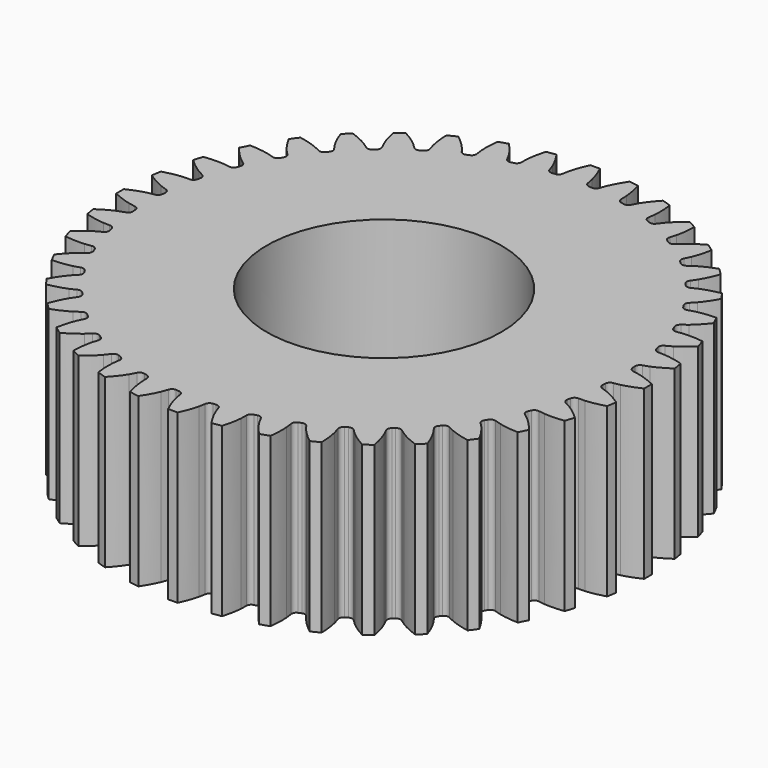
from build123d import *

# Parameters (mm, degrees)
CYLINDER_R     = 7
CYLINDER_DEPTH = 10
PAD002_DEPTH   = 10


with BuildPart() as cylinder:
    # Cylinder → Cylinder (new body)
    with BuildSketch(Plane.XY):
        Circle(CYLINDER_R)
    extrude(amount=CYLINDER_DEPTH)


with BuildPart() as cut001:
    # InvoluteGear001 → Pad002 (new body)
    with BuildSketch(Plane.XY):
        with BuildLine():
            add(Edge.make_bspline(
                [(14.281854, -0.750733), (14.376877, -0.739514), (14.50388, -0.718819), (14.661323, -0.680954)],
                knots=[0, 0, 0, 0, 1, 1, 1, 1], degree=3))
            add(Edge.make_bspline(
                [(14.661323, -0.680954), (14.937858, -0.61437), (15.305187, -0.495667), (15.747806, -0.285087)],
                knots=[0, 0, 0, 0, 1, 1, 1, 1], degree=3))
            ThreePointArc((15.747806, -0.285087), (15.750193, 7.5e-05), (15.747417, 0.285234))
            add(Edge.make_bspline(
                [(15.747417, 0.285234), (15.305187, 0.495667), (14.937858, 0.61437), (14.661323, 0.680954)],
                knots=[0, 0, 0, 0, 1, 1, 1, 1], degree=3))
            add(Edge.make_bspline(
                [(14.661323, 0.680954), (14.50388, 0.718819), (14.376877, 0.739514), (14.281897, 0.750726)],
                knots=[0, 0, 0, 0, 1, 1, 1, 1], degree=3))
            ThreePointArc((14.281897, 0.750726), (14.105779, 0.8357), (14.025881, 1.014179))
            ThreePointArc((14.025881, 1.014179), (14.01915, 1.103331), (14.011852, 1.192438))
            ThreePointArc((14.011852, 1.192438), (14.062835, 1.381199), (14.223462, 1.492684))
            add(Edge.make_bspline(
                [(14.223462, 1.492684), (14.315559, 1.51863), (14.437761, 1.558938), (14.587343, 1.620966)],
                knots=[0, 0, 0, 0, 1, 1, 1, 1], degree=3))
            add(Edge.make_bspline(
                [(14.587343, 1.620966), (14.850056, 1.72999), (15.194294, 1.904694), (15.598521, 2.181922)],
                knots=[0, 0, 0, 0, 1, 1, 1, 1], degree=3))
            ThreePointArc((15.598521, 2.181922), (15.55627, 2.463947), (15.50892, 2.745161))
            add(Edge.make_bspline(
                [(15.50892, 2.745161), (15.039215, 2.883823), (14.657839, 2.943602), (14.374293, 2.966107)],
                knots=[0, 0, 0, 0, 1, 1, 1, 1], degree=3))
            add(Edge.make_bspline(
                [(14.374293, 2.966107), (14.212865, 2.978875), (14.084188, 2.979448), (13.988624, 2.975664)],
                knots=[0, 0, 0, 0, 1, 1, 1, 1], degree=3))
            ThreePointArc((13.988624, 2.975664), (13.801381, 3.032041), (13.694547, 3.195824))
            ThreePointArc((13.694547, 3.195824), (13.673952, 3.282825), (13.652804, 3.369694))
            ThreePointArc((13.652804, 3.369694), (13.673631, 3.564106), (13.81484, 3.699346))
            add(Edge.make_bspline(
                [(13.81484, 3.699346), (13.901745, 3.73938), (14.016137, 3.798308), (14.154173, 3.882972)],
                knots=[0, 0, 0, 0, 1, 1, 1, 1], degree=3))
            add(Edge.make_bspline(
                [(14.154173, 3.882972), (14.396598, 4.031751), (14.709267, 4.258155), (15.06515, 4.595206)],
                knots=[0, 0, 0, 0, 1, 1, 1, 1], degree=3))
            ThreePointArc((15.06515, 4.595206), (14.979301, 4.867149), (14.888542, 5.137493))
            add(Edge.make_bspline(
                [(14.888542, 5.137493), (14.402928, 5.20097), (14.016896, 5.200352), (13.73332, 5.178224)],
                knots=[0, 0, 0, 0, 1, 1, 1, 1], degree=3))
            add(Edge.make_bspline(
                [(13.73332, 5.178224), (13.571882, 5.165583), (13.4447, 5.146018), (13.350905, 5.127332)],
                knots=[0, 0, 0, 0, 1, 1, 1, 1], degree=3))
            ThreePointArc((13.350905, 5.127332), (13.157147, 5.153724), (13.026007, 5.298778))
            ThreePointArc((13.026007, 5.298778), (12.992056, 5.381486), (12.95758, 5.463976))
            ThreePointArc((12.95758, 5.463976), (12.947736, 5.659253), (13.066051, 5.814918))
            add(Edge.make_bspline(
                [(13.066051, 5.814918), (13.145623, 5.868054), (13.249389, 5.944152), (13.372481, 6.049367)],
                knots=[0, 0, 0, 0, 1, 1, 1, 1], degree=3))
            add(Edge.make_bspline(
                [(13.372481, 6.049367), (13.588647, 6.234238), (13.86205, 6.506767), (14.160824, 6.89534)],
                knots=[0, 0, 0, 0, 1, 1, 1, 1], degree=3))
            ThreePointArc((14.160824, 6.89534), (14.033491, 7.150505), (13.901558, 7.403323))
            add(Edge.make_bspline(
                [(13.901558, 7.403323), (13.411993, 7.390052), (13.03081, 7.329053), (12.754188, 7.262836)],
                knots=[0, 0, 0, 0, 1, 1, 1, 1], degree=3))
            add(Edge.make_bspline(
                [(12.754188, 7.262836), (12.596715, 7.225096), (12.474159, 7.185877), (12.384441, 7.152747)],
                knots=[0, 0, 0, 0, 1, 1, 1, 1], degree=3))
            ThreePointArc((12.384441, 7.152747), (12.188941, 7.148504), (12.036724, 7.271257))
            ThreePointArc((12.036724, 7.271257), (11.990252, 7.347636), (11.943296, 7.423718))
            ThreePointArc((11.943296, 7.423718), (11.903026, 7.615051), (11.995533, 7.787307))
            add(Edge.make_bspline(
                [(11.995533, 7.787307), (12.065813, 7.852237), (12.156396, 7.94363), (12.261514, 8.066806)],
                knots=[0, 0, 0, 0, 1, 1, 1, 1], degree=3))
            add(Edge.make_bspline(
                [(12.261514, 8.066806), (12.446098, 8.283217), (12.673502, 8.59516), (12.907812, 9.025688)],
                knots=[0, 0, 0, 0, 1, 1, 1, 1], degree=3))
            ThreePointArc((12.907812, 9.025688), (12.74213, 9.257792), (12.572272, 9.486858))
            add(Edge.make_bspline(
                [(12.572272, 9.486858), (12.09081, 9.397166), (11.723863, 9.277288), (11.461005, 9.168613)],
                knots=[0, 0, 0, 0, 1, 1, 1, 1], degree=3))
            add(Edge.make_bspline(
                [(11.461005, 9.168613), (11.311374, 9.106703), (11.196463, 9.048795), (11.113032, 9.002038)],
                knots=[0, 0, 0, 0, 1, 1, 1, 1], degree=3))
            ThreePointArc((11.113032, 9.002038), (10.920603, 8.967265), (10.751057, 9.064694))
            ThreePointArc((10.751057, 9.064694), (10.693209, 9.132863), (10.634929, 9.200663))
            ThreePointArc((10.634929, 9.200663), (10.565224, 9.38334), (10.629645, 9.567948))
            add(Edge.make_bspline(
                [(10.629645, 9.567948), (10.688902, 9.643072), (10.764073, 9.74751), (10.848628, 9.885614)],
                knots=[0, 0, 0, 0, 1, 1, 1, 1], degree=3))
            add(Edge.make_bspline(
                [(10.848628, 9.885614), (10.997086, 10.128235), (11.172891, 10.471912), (11.336967, 10.933793)],
                knots=[0, 0, 0, 0, 1, 1, 1, 1], degree=3))
            ThreePointArc((11.336967, 10.933793), (11.137015, 11.137121), (10.933415, 11.336796))
            add(Edge.make_bspline(
                [(10.933415, 11.336796), (10.471912, 11.172891), (10.128235, 10.997086), (9.885614, 10.848628)],
                knots=[0, 0, 0, 0, 1, 1, 1, 1], degree=3))
            add(Edge.make_bspline(
                [(9.885614, 10.848628), (9.74751, 10.764073), (9.643072, 10.688902), (9.567983, 10.62967)],
                knots=[0, 0, 0, 0, 1, 1, 1, 1], degree=3))
            ThreePointArc((9.567983, 10.62967), (9.383363, 10.565221), (9.200663, 10.634929))
            ThreePointArc((9.200663, 10.634929), (9.132863, 10.693209), (9.064694, 10.751057))
            ThreePointArc((9.064694, 10.751057), (8.96727, 10.920581), (9.002019, 11.112993))
            add(Edge.make_bspline(
                [(9.002019, 11.112993), (9.048795, 11.196463), (9.106703, 11.311374), (9.168613, 11.461005)],
                knots=[0, 0, 0, 0, 1, 1, 1, 1], degree=3))
            add(Edge.make_bspline(
                [(9.168613, 11.461005), (9.277288, 11.723863), (9.397166, 12.09081), (9.486968, 12.572672)],
                knots=[0, 0, 0, 0, 1, 1, 1, 1], degree=3))
            ThreePointArc((9.486968, 12.572672), (9.25767, 12.742218), (9.025341, 12.907584))
            add(Edge.make_bspline(
                [(9.025341, 12.907584), (8.59516, 12.673502), (8.283217, 12.446098), (8.066806, 12.261514)],
                knots=[0, 0, 0, 0, 1, 1, 1, 1], degree=3))
            add(Edge.make_bspline(
                [(8.066806, 12.261514), (7.94363, 12.156396), (7.852237, 12.065813), (7.787339, 11.995563)],
                knots=[0, 0, 0, 0, 1, 1, 1, 1], degree=3))
            ThreePointArc((7.787339, 11.995563), (7.615073, 11.903027), (7.423718, 11.943296))
            ThreePointArc((7.423718, 11.943296), (7.347636, 11.990252), (7.271257, 12.036724))
            ThreePointArc((7.271257, 12.036724), (7.148513, 12.188921), (7.152734, 12.3844))
            add(Edge.make_bspline(
                [(7.152734, 12.3844), (7.185877, 12.474159), (7.225096, 12.596715), (7.262836, 12.754188)],
                knots=[0, 0, 0, 0, 1, 1, 1, 1], degree=3))
            add(Edge.make_bspline(
                [(7.262836, 12.754188), (7.329053, 13.03081), (7.390052, 13.411993), (7.403369, 13.901971)],
                knots=[0, 0, 0, 0, 1, 1, 1, 1], degree=3))
            ThreePointArc((7.403369, 13.901971), (7.150371, 14.033559), (6.895033, 14.160545))
            add(Edge.make_bspline(
                [(6.895033, 14.160545), (6.506767, 13.86205), (6.234238, 13.588647), (6.049367, 13.372481)],
                knots=[0, 0, 0, 0, 1, 1, 1, 1], degree=3))
            add(Edge.make_bspline(
                [(6.049367, 13.372481), (5.944152, 13.249389), (5.868054, 13.145623), (5.814944, 13.066086)],
                knots=[0, 0, 0, 0, 1, 1, 1, 1], degree=3))
            ThreePointArc((5.814944, 13.066086), (5.659275, 12.947741), (5.463976, 12.95758))
            ThreePointArc((5.463976, 12.95758), (5.381486, 12.992056), (5.298778, 13.026007))
            ThreePointArc((5.298778, 13.026007), (5.153736, 13.157129), (5.127326, 13.350861))
            add(Edge.make_bspline(
                [(5.127326, 13.350861), (5.146018, 13.4447), (5.165583, 13.571882), (5.178224, 13.73332)],
                knots=[0, 0, 0, 0, 1, 1, 1, 1], degree=3))
            add(Edge.make_bspline(
                [(5.178224, 13.73332), (5.200352, 14.016896), (5.20097, 14.402928), (5.137474, 14.888956)],
                knots=[0, 0, 0, 0, 1, 1, 1, 1], degree=3))
            ThreePointArc((5.137474, 14.888956), (4.867006, 14.979347), (4.594946, 15.064826))
            add(Edge.make_bspline(
                [(4.594946, 15.064826), (4.258155, 14.709267), (4.031751, 14.396598), (3.882972, 14.154173)],
                knots=[0, 0, 0, 0, 1, 1, 1, 1], degree=3))
            add(Edge.make_bspline(
                [(3.882972, 14.154173), (3.798308, 14.016137), (3.73938, 13.901745), (3.699366, 13.814879)],
                knots=[0, 0, 0, 0, 1, 1, 1, 1], degree=3))
            ThreePointArc((3.699366, 13.814879), (3.564127, 13.673639), (3.369694, 13.652804))
            ThreePointArc((3.369694, 13.652804), (3.282825, 13.673952), (3.195824, 13.694547))
            ThreePointArc((3.195824, 13.694547), (3.032057, 13.801364), (2.975665, 13.988581))
            add(Edge.make_bspline(
                [(2.975665, 13.988581), (2.979448, 14.084188), (2.978875, 14.212865), (2.966107, 14.374293)],
                knots=[0, 0, 0, 0, 1, 1, 1, 1], degree=3))
            add(Edge.make_bspline(
                [(2.966107, 14.374293), (2.943602, 14.657839), (2.883823, 15.039215), (2.745077, 15.509327)],
                knots=[0, 0, 0, 0, 1, 1, 1, 1], degree=3))
            ThreePointArc((2.745077, 15.509327), (2.463799, 15.556294), (2.181717, 15.598161))
            add(Edge.make_bspline(
                [(2.181717, 15.598161), (1.904694, 15.194294), (1.72999, 14.850056), (1.620966, 14.587343)],
                knots=[0, 0, 0, 0, 1, 1, 1, 1], degree=3))
            add(Edge.make_bspline(
                [(1.620966, 14.587343), (1.558938, 14.437761), (1.51863, 14.315559), (1.492698, 14.223503)],
                knots=[0, 0, 0, 0, 1, 1, 1, 1], degree=3))
            ThreePointArc((1.492698, 14.223503), (1.381219, 14.062846), (1.192438, 14.011852))
            ThreePointArc((1.192438, 14.011852), (1.103331, 14.01915), (1.014179, 14.025881))
            ThreePointArc((1.014179, 14.025881), (0.835718, 14.105765), (0.750733, 14.281854))
            add(Edge.make_bspline(
                [(0.750733, 14.281854), (0.739514, 14.376877), (0.718819, 14.50388), (0.680954, 14.661323)],
                knots=[0, 0, 0, 0, 1, 1, 1, 1], degree=3))
            add(Edge.make_bspline(
                [(0.680954, 14.661323), (0.61437, 14.937858), (0.495667, 15.305187), (0.285087, 15.747806)],
                knots=[0, 0, 0, 0, 1, 1, 1, 1], degree=3))
            ThreePointArc((0.285087, 15.747806), (-7.5e-05, 15.750193), (-0.285234, 15.747417))
            add(Edge.make_bspline(
                [(-0.285234, 15.747417), (-0.495667, 15.305187), (-0.61437, 14.937858), (-0.680954, 14.661323)],
                knots=[0, 0, 0, 0, 1, 1, 1, 1], degree=3))
            add(Edge.make_bspline(
                [(-0.680954, 14.661323), (-0.718819, 14.50388), (-0.739514, 14.376877), (-0.750726, 14.281897)],
                knots=[0, 0, 0, 0, 1, 1, 1, 1], degree=3))
            ThreePointArc((-0.750726, 14.281897), (-0.8357, 14.105779), (-1.014179, 14.025881))
            ThreePointArc((-1.014179, 14.025881), (-1.103331, 14.01915), (-1.192438, 14.011852))
            ThreePointArc((-1.192438, 14.011852), (-1.381199, 14.062835), (-1.492684, 14.223462))
            add(Edge.make_bspline(
                [(-1.492684, 14.223462), (-1.51863, 14.315559), (-1.558938, 14.437761), (-1.620966, 14.587343)],
                knots=[0, 0, 0, 0, 1, 1, 1, 1], degree=3))
            add(Edge.make_bspline(
                [(-1.620966, 14.587343), (-1.72999, 14.850056), (-1.904694, 15.194294), (-2.181922, 15.598521)],
                knots=[0, 0, 0, 0, 1, 1, 1, 1], degree=3))
            ThreePointArc((-2.181922, 15.598521), (-2.463947, 15.55627), (-2.745161, 15.50892))
            add(Edge.make_bspline(
                [(-2.745161, 15.50892), (-2.883823, 15.039215), (-2.943602, 14.657839), (-2.966107, 14.374293)],
                knots=[0, 0, 0, 0, 1, 1, 1, 1], degree=3))
            add(Edge.make_bspline(
                [(-2.966107, 14.374293), (-2.978875, 14.212865), (-2.979448, 14.084188), (-2.975664, 13.988624)],
                knots=[0, 0, 0, 0, 1, 1, 1, 1], degree=3))
            ThreePointArc((-2.975664, 13.988624), (-3.032041, 13.801381), (-3.195824, 13.694547))
            ThreePointArc((-3.195824, 13.694547), (-3.282825, 13.673952), (-3.369694, 13.652804))
            ThreePointArc((-3.369694, 13.652804), (-3.564106, 13.673631), (-3.699346, 13.81484))
            add(Edge.make_bspline(
                [(-3.699346, 13.81484), (-3.73938, 13.901745), (-3.798308, 14.016137), (-3.882972, 14.154173)],
                knots=[0, 0, 0, 0, 1, 1, 1, 1], degree=3))
            add(Edge.make_bspline(
                [(-3.882972, 14.154173), (-4.031751, 14.396598), (-4.258155, 14.709267), (-4.595206, 15.06515)],
                knots=[0, 0, 0, 0, 1, 1, 1, 1], degree=3))
            ThreePointArc((-4.595206, 15.06515), (-4.867149, 14.979301), (-5.137493, 14.888542))
            add(Edge.make_bspline(
                [(-5.137493, 14.888542), (-5.20097, 14.402928), (-5.200352, 14.016896), (-5.178224, 13.73332)],
                knots=[0, 0, 0, 0, 1, 1, 1, 1], degree=3))
            add(Edge.make_bspline(
                [(-5.178224, 13.73332), (-5.165583, 13.571882), (-5.146018, 13.4447), (-5.127332, 13.350905)],
                knots=[0, 0, 0, 0, 1, 1, 1, 1], degree=3))
            ThreePointArc((-5.127332, 13.350905), (-5.153724, 13.157147), (-5.298778, 13.026007))
            ThreePointArc((-5.298778, 13.026007), (-5.381486, 12.992056), (-5.463976, 12.95758))
            ThreePointArc((-5.463976, 12.95758), (-5.659253, 12.947736), (-5.814918, 13.066051))
            add(Edge.make_bspline(
                [(-5.814918, 13.066051), (-5.868054, 13.145623), (-5.944152, 13.249389), (-6.049367, 13.372481)],
                knots=[0, 0, 0, 0, 1, 1, 1, 1], degree=3))
            add(Edge.make_bspline(
                [(-6.049367, 13.372481), (-6.234238, 13.588647), (-6.506767, 13.86205), (-6.89534, 14.160824)],
                knots=[0, 0, 0, 0, 1, 1, 1, 1], degree=3))
            ThreePointArc((-6.89534, 14.160824), (-7.150505, 14.033491), (-7.403323, 13.901558))
            add(Edge.make_bspline(
                [(-7.403323, 13.901558), (-7.390052, 13.411993), (-7.329053, 13.03081), (-7.262836, 12.754188)],
                knots=[0, 0, 0, 0, 1, 1, 1, 1], degree=3))
            add(Edge.make_bspline(
                [(-7.262836, 12.754188), (-7.225096, 12.596715), (-7.185877, 12.474159), (-7.152747, 12.384441)],
                knots=[0, 0, 0, 0, 1, 1, 1, 1], degree=3))
            ThreePointArc((-7.152747, 12.384441), (-7.148504, 12.188941), (-7.271257, 12.036724))
            ThreePointArc((-7.271257, 12.036724), (-7.347636, 11.990252), (-7.423718, 11.943296))
            ThreePointArc((-7.423718, 11.943296), (-7.615051, 11.903026), (-7.787307, 11.995533))
            add(Edge.make_bspline(
                [(-7.787307, 11.995533), (-7.852237, 12.065813), (-7.94363, 12.156396), (-8.066806, 12.261514)],
                knots=[0, 0, 0, 0, 1, 1, 1, 1], degree=3))
            add(Edge.make_bspline(
                [(-8.066806, 12.261514), (-8.283217, 12.446098), (-8.59516, 12.673502), (-9.025688, 12.907812)],
                knots=[0, 0, 0, 0, 1, 1, 1, 1], degree=3))
            ThreePointArc((-9.025688, 12.907812), (-9.257792, 12.74213), (-9.486858, 12.572272))
            add(Edge.make_bspline(
                [(-9.486858, 12.572272), (-9.397166, 12.09081), (-9.277288, 11.723863), (-9.168613, 11.461005)],
                knots=[0, 0, 0, 0, 1, 1, 1, 1], degree=3))
            add(Edge.make_bspline(
                [(-9.168613, 11.461005), (-9.106703, 11.311374), (-9.048795, 11.196463), (-9.002038, 11.113032)],
                knots=[0, 0, 0, 0, 1, 1, 1, 1], degree=3))
            ThreePointArc((-9.002038, 11.113032), (-8.967265, 10.920603), (-9.064694, 10.751057))
            ThreePointArc((-9.064694, 10.751057), (-9.132863, 10.693209), (-9.200663, 10.634929))
            ThreePointArc((-9.200663, 10.634929), (-9.38334, 10.565224), (-9.567948, 10.629645))
            add(Edge.make_bspline(
                [(-9.567948, 10.629645), (-9.643072, 10.688902), (-9.74751, 10.764073), (-9.885614, 10.848628)],
                knots=[0, 0, 0, 0, 1, 1, 1, 1], degree=3))
            add(Edge.make_bspline(
                [(-9.885614, 10.848628), (-10.128235, 10.997086), (-10.471912, 11.172891), (-10.933793, 11.336967)],
                knots=[0, 0, 0, 0, 1, 1, 1, 1], degree=3))
            ThreePointArc((-10.933793, 11.336967), (-11.137121, 11.137015), (-11.336796, 10.933415))
            add(Edge.make_bspline(
                [(-11.336796, 10.933415), (-11.172891, 10.471912), (-10.997086, 10.128235), (-10.848628, 9.885614)],
                knots=[0, 0, 0, 0, 1, 1, 1, 1], degree=3))
            add(Edge.make_bspline(
                [(-10.848628, 9.885614), (-10.764073, 9.74751), (-10.688902, 9.643072), (-10.62967, 9.567983)],
                knots=[0, 0, 0, 0, 1, 1, 1, 1], degree=3))
            ThreePointArc((-10.62967, 9.567983), (-10.565221, 9.383363), (-10.634929, 9.200663))
            ThreePointArc((-10.634929, 9.200663), (-10.693209, 9.132863), (-10.751057, 9.064694))
            ThreePointArc((-10.751057, 9.064694), (-10.920581, 8.96727), (-11.112993, 9.002019))
            add(Edge.make_bspline(
                [(-11.112993, 9.002019), (-11.196463, 9.048795), (-11.311374, 9.106703), (-11.461005, 9.168613)],
                knots=[0, 0, 0, 0, 1, 1, 1, 1], degree=3))
            add(Edge.make_bspline(
                [(-11.461005, 9.168613), (-11.723863, 9.277288), (-12.09081, 9.397166), (-12.572672, 9.486968)],
                knots=[0, 0, 0, 0, 1, 1, 1, 1], degree=3))
            ThreePointArc((-12.572672, 9.486968), (-12.742218, 9.25767), (-12.907584, 9.025341))
            add(Edge.make_bspline(
                [(-12.907584, 9.025341), (-12.673502, 8.59516), (-12.446098, 8.283217), (-12.261514, 8.066806)],
                knots=[0, 0, 0, 0, 1, 1, 1, 1], degree=3))
            add(Edge.make_bspline(
                [(-12.261514, 8.066806), (-12.156396, 7.94363), (-12.065813, 7.852237), (-11.995563, 7.787339)],
                knots=[0, 0, 0, 0, 1, 1, 1, 1], degree=3))
            ThreePointArc((-11.995563, 7.787339), (-11.903027, 7.615073), (-11.943296, 7.423718))
            ThreePointArc((-11.943296, 7.423718), (-11.990252, 7.347636), (-12.036724, 7.271257))
            ThreePointArc((-12.036724, 7.271257), (-12.188921, 7.148513), (-12.3844, 7.152734))
            add(Edge.make_bspline(
                [(-12.3844, 7.152734), (-12.474159, 7.185877), (-12.596715, 7.225096), (-12.754188, 7.262836)],
                knots=[0, 0, 0, 0, 1, 1, 1, 1], degree=3))
            add(Edge.make_bspline(
                [(-12.754188, 7.262836), (-13.03081, 7.329053), (-13.411993, 7.390052), (-13.901971, 7.403369)],
                knots=[0, 0, 0, 0, 1, 1, 1, 1], degree=3))
            ThreePointArc((-13.901971, 7.403369), (-14.033559, 7.150371), (-14.160545, 6.895033))
            add(Edge.make_bspline(
                [(-14.160545, 6.895033), (-13.86205, 6.506767), (-13.588647, 6.234238), (-13.372481, 6.049367)],
                knots=[0, 0, 0, 0, 1, 1, 1, 1], degree=3))
            add(Edge.make_bspline(
                [(-13.372481, 6.049367), (-13.249389, 5.944152), (-13.145623, 5.868054), (-13.066086, 5.814944)],
                knots=[0, 0, 0, 0, 1, 1, 1, 1], degree=3))
            ThreePointArc((-13.066086, 5.814944), (-12.947741, 5.659275), (-12.95758, 5.463976))
            ThreePointArc((-12.95758, 5.463976), (-12.992056, 5.381486), (-13.026007, 5.298778))
            ThreePointArc((-13.026007, 5.298778), (-13.157129, 5.153736), (-13.350861, 5.127326))
            add(Edge.make_bspline(
                [(-13.350861, 5.127326), (-13.4447, 5.146018), (-13.571882, 5.165583), (-13.73332, 5.178224)],
                knots=[0, 0, 0, 0, 1, 1, 1, 1], degree=3))
            add(Edge.make_bspline(
                [(-13.73332, 5.178224), (-14.016896, 5.200352), (-14.402928, 5.20097), (-14.888956, 5.137474)],
                knots=[0, 0, 0, 0, 1, 1, 1, 1], degree=3))
            ThreePointArc((-14.888956, 5.137474), (-14.979347, 4.867006), (-15.064826, 4.594946))
            add(Edge.make_bspline(
                [(-15.064826, 4.594946), (-14.709267, 4.258155), (-14.396598, 4.031751), (-14.154173, 3.882972)],
                knots=[0, 0, 0, 0, 1, 1, 1, 1], degree=3))
            add(Edge.make_bspline(
                [(-14.154173, 3.882972), (-14.016137, 3.798308), (-13.901745, 3.73938), (-13.814879, 3.699366)],
                knots=[0, 0, 0, 0, 1, 1, 1, 1], degree=3))
            ThreePointArc((-13.814879, 3.699366), (-13.673639, 3.564127), (-13.652804, 3.369694))
            ThreePointArc((-13.652804, 3.369694), (-13.673952, 3.282825), (-13.694547, 3.195824))
            ThreePointArc((-13.694547, 3.195824), (-13.801364, 3.032057), (-13.988581, 2.975665))
            add(Edge.make_bspline(
                [(-13.988581, 2.975665), (-14.084188, 2.979448), (-14.212865, 2.978875), (-14.374293, 2.966107)],
                knots=[0, 0, 0, 0, 1, 1, 1, 1], degree=3))
            add(Edge.make_bspline(
                [(-14.374293, 2.966107), (-14.657839, 2.943602), (-15.039215, 2.883823), (-15.509327, 2.745077)],
                knots=[0, 0, 0, 0, 1, 1, 1, 1], degree=3))
            ThreePointArc((-15.509327, 2.745077), (-15.556294, 2.463799), (-15.598161, 2.181717))
            add(Edge.make_bspline(
                [(-15.598161, 2.181717), (-15.194294, 1.904694), (-14.850056, 1.72999), (-14.587343, 1.620966)],
                knots=[0, 0, 0, 0, 1, 1, 1, 1], degree=3))
            add(Edge.make_bspline(
                [(-14.587343, 1.620966), (-14.437761, 1.558938), (-14.315559, 1.51863), (-14.223503, 1.492698)],
                knots=[0, 0, 0, 0, 1, 1, 1, 1], degree=3))
            ThreePointArc((-14.223503, 1.492698), (-14.062846, 1.381219), (-14.011852, 1.192438))
            ThreePointArc((-14.011852, 1.192438), (-14.01915, 1.103331), (-14.025881, 1.014179))
            ThreePointArc((-14.025881, 1.014179), (-14.105765, 0.835718), (-14.281854, 0.750733))
            add(Edge.make_bspline(
                [(-14.281854, 0.750733), (-14.376877, 0.739514), (-14.50388, 0.718819), (-14.661323, 0.680954)],
                knots=[0, 0, 0, 0, 1, 1, 1, 1], degree=3))
            add(Edge.make_bspline(
                [(-14.661323, 0.680954), (-14.937858, 0.61437), (-15.305187, 0.495667), (-15.747806, 0.285087)],
                knots=[0, 0, 0, 0, 1, 1, 1, 1], degree=3))
            ThreePointArc((-15.747806, 0.285087), (-15.750193, -7.5e-05), (-15.747417, -0.285234))
            add(Edge.make_bspline(
                [(-15.747417, -0.285234), (-15.305187, -0.495667), (-14.937858, -0.61437), (-14.661323, -0.680954)],
                knots=[0, 0, 0, 0, 1, 1, 1, 1], degree=3))
            add(Edge.make_bspline(
                [(-14.661323, -0.680954), (-14.50388, -0.718819), (-14.376877, -0.739514), (-14.281897, -0.750726)],
                knots=[0, 0, 0, 0, 1, 1, 1, 1], degree=3))
            ThreePointArc((-14.281897, -0.750726), (-14.105779, -0.8357), (-14.025881, -1.014179))
            ThreePointArc((-14.025881, -1.014179), (-14.01915, -1.103331), (-14.011852, -1.192438))
            ThreePointArc((-14.011852, -1.192438), (-14.062835, -1.381199), (-14.223462, -1.492684))
            add(Edge.make_bspline(
                [(-14.223462, -1.492684), (-14.315559, -1.51863), (-14.437761, -1.558938), (-14.587343, -1.620966)],
                knots=[0, 0, 0, 0, 1, 1, 1, 1], degree=3))
            add(Edge.make_bspline(
                [(-14.587343, -1.620966), (-14.850056, -1.72999), (-15.194294, -1.904694), (-15.598521, -2.181922)],
                knots=[0, 0, 0, 0, 1, 1, 1, 1], degree=3))
            ThreePointArc((-15.598521, -2.181922), (-15.55627, -2.463947), (-15.50892, -2.745161))
            add(Edge.make_bspline(
                [(-15.50892, -2.745161), (-15.039215, -2.883823), (-14.657839, -2.943602), (-14.374293, -2.966107)],
                knots=[0, 0, 0, 0, 1, 1, 1, 1], degree=3))
            add(Edge.make_bspline(
                [(-14.374293, -2.966107), (-14.212865, -2.978875), (-14.084188, -2.979448), (-13.988624, -2.975664)],
                knots=[0, 0, 0, 0, 1, 1, 1, 1], degree=3))
            ThreePointArc((-13.988624, -2.975664), (-13.801381, -3.032041), (-13.694547, -3.195824))
            ThreePointArc((-13.694547, -3.195824), (-13.673952, -3.282825), (-13.652804, -3.369694))
            ThreePointArc((-13.652804, -3.369694), (-13.673631, -3.564106), (-13.81484, -3.699346))
            add(Edge.make_bspline(
                [(-13.81484, -3.699346), (-13.901745, -3.73938), (-14.016137, -3.798308), (-14.154173, -3.882972)],
                knots=[0, 0, 0, 0, 1, 1, 1, 1], degree=3))
            add(Edge.make_bspline(
                [(-14.154173, -3.882972), (-14.396598, -4.031751), (-14.709267, -4.258155), (-15.06515, -4.595206)],
                knots=[0, 0, 0, 0, 1, 1, 1, 1], degree=3))
            ThreePointArc((-15.06515, -4.595206), (-14.979301, -4.867149), (-14.888542, -5.137493))
            add(Edge.make_bspline(
                [(-14.888542, -5.137493), (-14.402928, -5.20097), (-14.016896, -5.200352), (-13.73332, -5.178224)],
                knots=[0, 0, 0, 0, 1, 1, 1, 1], degree=3))
            add(Edge.make_bspline(
                [(-13.73332, -5.178224), (-13.571882, -5.165583), (-13.4447, -5.146018), (-13.350905, -5.127332)],
                knots=[0, 0, 0, 0, 1, 1, 1, 1], degree=3))
            ThreePointArc((-13.350905, -5.127332), (-13.157147, -5.153724), (-13.026007, -5.298778))
            ThreePointArc((-13.026007, -5.298778), (-12.992056, -5.381486), (-12.95758, -5.463976))
            ThreePointArc((-12.95758, -5.463976), (-12.947736, -5.659253), (-13.066051, -5.814918))
            add(Edge.make_bspline(
                [(-13.066051, -5.814918), (-13.145623, -5.868054), (-13.249389, -5.944152), (-13.372481, -6.049367)],
                knots=[0, 0, 0, 0, 1, 1, 1, 1], degree=3))
            add(Edge.make_bspline(
                [(-13.372481, -6.049367), (-13.588647, -6.234238), (-13.86205, -6.506767), (-14.160824, -6.89534)],
                knots=[0, 0, 0, 0, 1, 1, 1, 1], degree=3))
            ThreePointArc((-14.160824, -6.89534), (-14.033491, -7.150505), (-13.901558, -7.403323))
            add(Edge.make_bspline(
                [(-13.901558, -7.403323), (-13.411993, -7.390052), (-13.03081, -7.329053), (-12.754188, -7.262836)],
                knots=[0, 0, 0, 0, 1, 1, 1, 1], degree=3))
            add(Edge.make_bspline(
                [(-12.754188, -7.262836), (-12.596715, -7.225096), (-12.474159, -7.185877), (-12.384441, -7.152747)],
                knots=[0, 0, 0, 0, 1, 1, 1, 1], degree=3))
            ThreePointArc((-12.384441, -7.152747), (-12.188941, -7.148504), (-12.036724, -7.271257))
            ThreePointArc((-12.036724, -7.271257), (-11.990252, -7.347636), (-11.943296, -7.423718))
            ThreePointArc((-11.943296, -7.423718), (-11.903026, -7.615051), (-11.995533, -7.787307))
            add(Edge.make_bspline(
                [(-11.995533, -7.787307), (-12.065813, -7.852237), (-12.156396, -7.94363), (-12.261514, -8.066806)],
                knots=[0, 0, 0, 0, 1, 1, 1, 1], degree=3))
            add(Edge.make_bspline(
                [(-12.261514, -8.066806), (-12.446098, -8.283217), (-12.673502, -8.59516), (-12.907812, -9.025688)],
                knots=[0, 0, 0, 0, 1, 1, 1, 1], degree=3))
            ThreePointArc((-12.907812, -9.025688), (-12.74213, -9.257792), (-12.572272, -9.486858))
            add(Edge.make_bspline(
                [(-12.572272, -9.486858), (-12.09081, -9.397166), (-11.723863, -9.277288), (-11.461005, -9.168613)],
                knots=[0, 0, 0, 0, 1, 1, 1, 1], degree=3))
            add(Edge.make_bspline(
                [(-11.461005, -9.168613), (-11.311374, -9.106703), (-11.196463, -9.048795), (-11.113032, -9.002038)],
                knots=[0, 0, 0, 0, 1, 1, 1, 1], degree=3))
            ThreePointArc((-11.113032, -9.002038), (-10.920603, -8.967265), (-10.751057, -9.064694))
            ThreePointArc((-10.751057, -9.064694), (-10.693209, -9.132863), (-10.634929, -9.200663))
            ThreePointArc((-10.634929, -9.200663), (-10.565224, -9.38334), (-10.629645, -9.567948))
            add(Edge.make_bspline(
                [(-10.629645, -9.567948), (-10.688902, -9.643072), (-10.764073, -9.74751), (-10.848628, -9.885614)],
                knots=[0, 0, 0, 0, 1, 1, 1, 1], degree=3))
            add(Edge.make_bspline(
                [(-10.848628, -9.885614), (-10.997086, -10.128235), (-11.172891, -10.471912), (-11.336967, -10.933793)],
                knots=[0, 0, 0, 0, 1, 1, 1, 1], degree=3))
            ThreePointArc((-11.336967, -10.933793), (-11.137015, -11.137121), (-10.933415, -11.336796))
            add(Edge.make_bspline(
                [(-10.933415, -11.336796), (-10.471912, -11.172891), (-10.128235, -10.997086), (-9.885614, -10.848628)],
                knots=[0, 0, 0, 0, 1, 1, 1, 1], degree=3))
            add(Edge.make_bspline(
                [(-9.885614, -10.848628), (-9.74751, -10.764073), (-9.643072, -10.688902), (-9.567983, -10.62967)],
                knots=[0, 0, 0, 0, 1, 1, 1, 1], degree=3))
            ThreePointArc((-9.567983, -10.62967), (-9.383363, -10.565221), (-9.200663, -10.634929))
            ThreePointArc((-9.200663, -10.634929), (-9.132863, -10.693209), (-9.064694, -10.751057))
            ThreePointArc((-9.064694, -10.751057), (-8.96727, -10.920581), (-9.002019, -11.112993))
            add(Edge.make_bspline(
                [(-9.002019, -11.112993), (-9.048795, -11.196463), (-9.106703, -11.311374), (-9.168613, -11.461005)],
                knots=[0, 0, 0, 0, 1, 1, 1, 1], degree=3))
            add(Edge.make_bspline(
                [(-9.168613, -11.461005), (-9.277288, -11.723863), (-9.397166, -12.09081), (-9.486968, -12.572672)],
                knots=[0, 0, 0, 0, 1, 1, 1, 1], degree=3))
            ThreePointArc((-9.486968, -12.572672), (-9.25767, -12.742218), (-9.025341, -12.907584))
            add(Edge.make_bspline(
                [(-9.025341, -12.907584), (-8.59516, -12.673502), (-8.283217, -12.446098), (-8.066806, -12.261514)],
                knots=[0, 0, 0, 0, 1, 1, 1, 1], degree=3))
            add(Edge.make_bspline(
                [(-8.066806, -12.261514), (-7.94363, -12.156396), (-7.852237, -12.065813), (-7.787339, -11.995563)],
                knots=[0, 0, 0, 0, 1, 1, 1, 1], degree=3))
            ThreePointArc((-7.787339, -11.995563), (-7.615073, -11.903027), (-7.423718, -11.943296))
            ThreePointArc((-7.423718, -11.943296), (-7.347636, -11.990252), (-7.271257, -12.036724))
            ThreePointArc((-7.271257, -12.036724), (-7.148513, -12.188921), (-7.152734, -12.3844))
            add(Edge.make_bspline(
                [(-7.152734, -12.3844), (-7.185877, -12.474159), (-7.225096, -12.596715), (-7.262836, -12.754188)],
                knots=[0, 0, 0, 0, 1, 1, 1, 1], degree=3))
            add(Edge.make_bspline(
                [(-7.262836, -12.754188), (-7.329053, -13.03081), (-7.390052, -13.411993), (-7.403369, -13.901971)],
                knots=[0, 0, 0, 0, 1, 1, 1, 1], degree=3))
            ThreePointArc((-7.403369, -13.901971), (-7.150371, -14.033559), (-6.895033, -14.160545))
            add(Edge.make_bspline(
                [(-6.895033, -14.160545), (-6.506767, -13.86205), (-6.234238, -13.588647), (-6.049367, -13.372481)],
                knots=[0, 0, 0, 0, 1, 1, 1, 1], degree=3))
            add(Edge.make_bspline(
                [(-6.049367, -13.372481), (-5.944152, -13.249389), (-5.868054, -13.145623), (-5.814944, -13.066086)],
                knots=[0, 0, 0, 0, 1, 1, 1, 1], degree=3))
            ThreePointArc((-5.814944, -13.066086), (-5.659275, -12.947741), (-5.463976, -12.95758))
            ThreePointArc((-5.463976, -12.95758), (-5.381486, -12.992056), (-5.298778, -13.026007))
            ThreePointArc((-5.298778, -13.026007), (-5.153736, -13.157129), (-5.127326, -13.350861))
            add(Edge.make_bspline(
                [(-5.127326, -13.350861), (-5.146018, -13.4447), (-5.165583, -13.571882), (-5.178224, -13.73332)],
                knots=[0, 0, 0, 0, 1, 1, 1, 1], degree=3))
            add(Edge.make_bspline(
                [(-5.178224, -13.73332), (-5.200352, -14.016896), (-5.20097, -14.402928), (-5.137474, -14.888956)],
                knots=[0, 0, 0, 0, 1, 1, 1, 1], degree=3))
            ThreePointArc((-5.137474, -14.888956), (-4.867006, -14.979347), (-4.594946, -15.064826))
            add(Edge.make_bspline(
                [(-4.594946, -15.064826), (-4.258155, -14.709267), (-4.031751, -14.396598), (-3.882972, -14.154173)],
                knots=[0, 0, 0, 0, 1, 1, 1, 1], degree=3))
            add(Edge.make_bspline(
                [(-3.882972, -14.154173), (-3.798308, -14.016137), (-3.73938, -13.901745), (-3.699366, -13.814879)],
                knots=[0, 0, 0, 0, 1, 1, 1, 1], degree=3))
            ThreePointArc((-3.699366, -13.814879), (-3.564127, -13.673639), (-3.369694, -13.652804))
            ThreePointArc((-3.369694, -13.652804), (-3.282825, -13.673952), (-3.195824, -13.694547))
            ThreePointArc((-3.195824, -13.694547), (-3.032057, -13.801364), (-2.975665, -13.988581))
            add(Edge.make_bspline(
                [(-2.975665, -13.988581), (-2.979448, -14.084188), (-2.978875, -14.212865), (-2.966107, -14.374293)],
                knots=[0, 0, 0, 0, 1, 1, 1, 1], degree=3))
            add(Edge.make_bspline(
                [(-2.966107, -14.374293), (-2.943602, -14.657839), (-2.883823, -15.039215), (-2.745077, -15.509327)],
                knots=[0, 0, 0, 0, 1, 1, 1, 1], degree=3))
            ThreePointArc((-2.745077, -15.509327), (-2.463799, -15.556294), (-2.181717, -15.598161))
            add(Edge.make_bspline(
                [(-2.181717, -15.598161), (-1.904694, -15.194294), (-1.72999, -14.850056), (-1.620966, -14.587343)],
                knots=[0, 0, 0, 0, 1, 1, 1, 1], degree=3))
            add(Edge.make_bspline(
                [(-1.620966, -14.587343), (-1.558938, -14.437761), (-1.51863, -14.315559), (-1.492698, -14.223503)],
                knots=[0, 0, 0, 0, 1, 1, 1, 1], degree=3))
            ThreePointArc((-1.492698, -14.223503), (-1.381219, -14.062846), (-1.192438, -14.011852))
            ThreePointArc((-1.192438, -14.011852), (-1.103331, -14.01915), (-1.014179, -14.025881))
            ThreePointArc((-1.014179, -14.025881), (-0.835718, -14.105765), (-0.750733, -14.281854))
            add(Edge.make_bspline(
                [(-0.750733, -14.281854), (-0.739514, -14.376877), (-0.718819, -14.50388), (-0.680954, -14.661323)],
                knots=[0, 0, 0, 0, 1, 1, 1, 1], degree=3))
            add(Edge.make_bspline(
                [(-0.680954, -14.661323), (-0.61437, -14.937858), (-0.495667, -15.305187), (-0.285087, -15.747806)],
                knots=[0, 0, 0, 0, 1, 1, 1, 1], degree=3))
            ThreePointArc((-0.285087, -15.747806), (7.5e-05, -15.750193), (0.285234, -15.747417))
            add(Edge.make_bspline(
                [(0.285234, -15.747417), (0.495667, -15.305187), (0.61437, -14.937858), (0.680954, -14.661323)],
                knots=[0, 0, 0, 0, 1, 1, 1, 1], degree=3))
            add(Edge.make_bspline(
                [(0.680954, -14.661323), (0.718819, -14.50388), (0.739514, -14.376877), (0.750726, -14.281897)],
                knots=[0, 0, 0, 0, 1, 1, 1, 1], degree=3))
            ThreePointArc((0.750726, -14.281897), (0.8357, -14.105779), (1.014179, -14.025881))
            ThreePointArc((1.014179, -14.025881), (1.103331, -14.01915), (1.192438, -14.011852))
            ThreePointArc((1.192438, -14.011852), (1.381199, -14.062835), (1.492684, -14.223462))
            add(Edge.make_bspline(
                [(1.492684, -14.223462), (1.51863, -14.315559), (1.558938, -14.437761), (1.620966, -14.587343)],
                knots=[0, 0, 0, 0, 1, 1, 1, 1], degree=3))
            add(Edge.make_bspline(
                [(1.620966, -14.587343), (1.72999, -14.850056), (1.904694, -15.194294), (2.181922, -15.598521)],
                knots=[0, 0, 0, 0, 1, 1, 1, 1], degree=3))
            ThreePointArc((2.181922, -15.598521), (2.463947, -15.55627), (2.745161, -15.50892))
            add(Edge.make_bspline(
                [(2.745161, -15.50892), (2.883823, -15.039215), (2.943602, -14.657839), (2.966107, -14.374293)],
                knots=[0, 0, 0, 0, 1, 1, 1, 1], degree=3))
            add(Edge.make_bspline(
                [(2.966107, -14.374293), (2.978875, -14.212865), (2.979448, -14.084188), (2.975664, -13.988624)],
                knots=[0, 0, 0, 0, 1, 1, 1, 1], degree=3))
            ThreePointArc((2.975664, -13.988624), (3.032041, -13.801381), (3.195824, -13.694547))
            ThreePointArc((3.195824, -13.694547), (3.282825, -13.673952), (3.369694, -13.652804))
            ThreePointArc((3.369694, -13.652804), (3.564106, -13.673631), (3.699346, -13.81484))
            add(Edge.make_bspline(
                [(3.699346, -13.81484), (3.73938, -13.901745), (3.798308, -14.016137), (3.882972, -14.154173)],
                knots=[0, 0, 0, 0, 1, 1, 1, 1], degree=3))
            add(Edge.make_bspline(
                [(3.882972, -14.154173), (4.031751, -14.396598), (4.258155, -14.709267), (4.595206, -15.06515)],
                knots=[0, 0, 0, 0, 1, 1, 1, 1], degree=3))
            ThreePointArc((4.595206, -15.06515), (4.867149, -14.979301), (5.137493, -14.888542))
            add(Edge.make_bspline(
                [(5.137493, -14.888542), (5.20097, -14.402928), (5.200352, -14.016896), (5.178224, -13.73332)],
                knots=[0, 0, 0, 0, 1, 1, 1, 1], degree=3))
            add(Edge.make_bspline(
                [(5.178224, -13.73332), (5.165583, -13.571882), (5.146018, -13.4447), (5.127332, -13.350905)],
                knots=[0, 0, 0, 0, 1, 1, 1, 1], degree=3))
            ThreePointArc((5.127332, -13.350905), (5.153724, -13.157147), (5.298778, -13.026007))
            ThreePointArc((5.298778, -13.026007), (5.381486, -12.992056), (5.463976, -12.95758))
            ThreePointArc((5.463976, -12.95758), (5.659253, -12.947736), (5.814918, -13.066051))
            add(Edge.make_bspline(
                [(5.814918, -13.066051), (5.868054, -13.145623), (5.944152, -13.249389), (6.049367, -13.372481)],
                knots=[0, 0, 0, 0, 1, 1, 1, 1], degree=3))
            add(Edge.make_bspline(
                [(6.049367, -13.372481), (6.234238, -13.588647), (6.506767, -13.86205), (6.89534, -14.160824)],
                knots=[0, 0, 0, 0, 1, 1, 1, 1], degree=3))
            ThreePointArc((6.89534, -14.160824), (7.150505, -14.033491), (7.403323, -13.901558))
            add(Edge.make_bspline(
                [(7.403323, -13.901558), (7.390052, -13.411993), (7.329053, -13.03081), (7.262836, -12.754188)],
                knots=[0, 0, 0, 0, 1, 1, 1, 1], degree=3))
            add(Edge.make_bspline(
                [(7.262836, -12.754188), (7.225096, -12.596715), (7.185877, -12.474159), (7.152747, -12.384441)],
                knots=[0, 0, 0, 0, 1, 1, 1, 1], degree=3))
            ThreePointArc((7.152747, -12.384441), (7.148504, -12.188941), (7.271257, -12.036724))
            ThreePointArc((7.271257, -12.036724), (7.347636, -11.990252), (7.423718, -11.943296))
            ThreePointArc((7.423718, -11.943296), (7.615051, -11.903026), (7.787307, -11.995533))
            add(Edge.make_bspline(
                [(7.787307, -11.995533), (7.852237, -12.065813), (7.94363, -12.156396), (8.066806, -12.261514)],
                knots=[0, 0, 0, 0, 1, 1, 1, 1], degree=3))
            add(Edge.make_bspline(
                [(8.066806, -12.261514), (8.283217, -12.446098), (8.59516, -12.673502), (9.025688, -12.907812)],
                knots=[0, 0, 0, 0, 1, 1, 1, 1], degree=3))
            ThreePointArc((9.025688, -12.907812), (9.257792, -12.74213), (9.486858, -12.572272))
            add(Edge.make_bspline(
                [(9.486858, -12.572272), (9.397166, -12.09081), (9.277288, -11.723863), (9.168613, -11.461005)],
                knots=[0, 0, 0, 0, 1, 1, 1, 1], degree=3))
            add(Edge.make_bspline(
                [(9.168613, -11.461005), (9.106703, -11.311374), (9.048795, -11.196463), (9.002038, -11.113032)],
                knots=[0, 0, 0, 0, 1, 1, 1, 1], degree=3))
            ThreePointArc((9.002038, -11.113032), (8.967265, -10.920603), (9.064694, -10.751057))
            ThreePointArc((9.064694, -10.751057), (9.132863, -10.693209), (9.200663, -10.634929))
            ThreePointArc((9.200663, -10.634929), (9.38334, -10.565224), (9.567948, -10.629645))
            add(Edge.make_bspline(
                [(9.567948, -10.629645), (9.643072, -10.688902), (9.74751, -10.764073), (9.885614, -10.848628)],
                knots=[0, 0, 0, 0, 1, 1, 1, 1], degree=3))
            add(Edge.make_bspline(
                [(9.885614, -10.848628), (10.128235, -10.997086), (10.471912, -11.172891), (10.933793, -11.336967)],
                knots=[0, 0, 0, 0, 1, 1, 1, 1], degree=3))
            ThreePointArc((10.933793, -11.336967), (11.137121, -11.137015), (11.336796, -10.933415))
            add(Edge.make_bspline(
                [(11.336796, -10.933415), (11.172891, -10.471912), (10.997086, -10.128235), (10.848628, -9.885614)],
                knots=[0, 0, 0, 0, 1, 1, 1, 1], degree=3))
            add(Edge.make_bspline(
                [(10.848628, -9.885614), (10.764073, -9.74751), (10.688902, -9.643072), (10.62967, -9.567983)],
                knots=[0, 0, 0, 0, 1, 1, 1, 1], degree=3))
            ThreePointArc((10.62967, -9.567983), (10.565221, -9.383363), (10.634929, -9.200663))
            ThreePointArc((10.634929, -9.200663), (10.693209, -9.132863), (10.751057, -9.064694))
            ThreePointArc((10.751057, -9.064694), (10.920581, -8.96727), (11.112993, -9.002019))
            add(Edge.make_bspline(
                [(11.112993, -9.002019), (11.196463, -9.048795), (11.311374, -9.106703), (11.461005, -9.168613)],
                knots=[0, 0, 0, 0, 1, 1, 1, 1], degree=3))
            add(Edge.make_bspline(
                [(11.461005, -9.168613), (11.723863, -9.277288), (12.09081, -9.397166), (12.572672, -9.486968)],
                knots=[0, 0, 0, 0, 1, 1, 1, 1], degree=3))
            ThreePointArc((12.572672, -9.486968), (12.742218, -9.25767), (12.907584, -9.025341))
            add(Edge.make_bspline(
                [(12.907584, -9.025341), (12.673502, -8.59516), (12.446098, -8.283217), (12.261514, -8.066806)],
                knots=[0, 0, 0, 0, 1, 1, 1, 1], degree=3))
            add(Edge.make_bspline(
                [(12.261514, -8.066806), (12.156396, -7.94363), (12.065813, -7.852237), (11.995563, -7.787339)],
                knots=[0, 0, 0, 0, 1, 1, 1, 1], degree=3))
            ThreePointArc((11.995563, -7.787339), (11.903027, -7.615073), (11.943296, -7.423718))
            ThreePointArc((11.943296, -7.423718), (11.990252, -7.347636), (12.036724, -7.271257))
            ThreePointArc((12.036724, -7.271257), (12.188921, -7.148513), (12.3844, -7.152734))
            add(Edge.make_bspline(
                [(12.3844, -7.152734), (12.474159, -7.185877), (12.596715, -7.225096), (12.754188, -7.262836)],
                knots=[0, 0, 0, 0, 1, 1, 1, 1], degree=3))
            add(Edge.make_bspline(
                [(12.754188, -7.262836), (13.03081, -7.329053), (13.411993, -7.390052), (13.901971, -7.403369)],
                knots=[0, 0, 0, 0, 1, 1, 1, 1], degree=3))
            ThreePointArc((13.901971, -7.403369), (14.033559, -7.150371), (14.160545, -6.895033))
            add(Edge.make_bspline(
                [(14.160545, -6.895033), (13.86205, -6.506767), (13.588647, -6.234238), (13.372481, -6.049367)],
                knots=[0, 0, 0, 0, 1, 1, 1, 1], degree=3))
            add(Edge.make_bspline(
                [(13.372481, -6.049367), (13.249389, -5.944152), (13.145623, -5.868054), (13.066086, -5.814944)],
                knots=[0, 0, 0, 0, 1, 1, 1, 1], degree=3))
            ThreePointArc((13.066086, -5.814944), (12.947741, -5.659275), (12.95758, -5.463976))
            ThreePointArc((12.95758, -5.463976), (12.992056, -5.381486), (13.026007, -5.298778))
            ThreePointArc((13.026007, -5.298778), (13.157129, -5.153736), (13.350861, -5.127326))
            add(Edge.make_bspline(
                [(13.350861, -5.127326), (13.4447, -5.146018), (13.571882, -5.165583), (13.73332, -5.178224)],
                knots=[0, 0, 0, 0, 1, 1, 1, 1], degree=3))
            add(Edge.make_bspline(
                [(13.73332, -5.178224), (14.016896, -5.200352), (14.402928, -5.20097), (14.888956, -5.137474)],
                knots=[0, 0, 0, 0, 1, 1, 1, 1], degree=3))
            ThreePointArc((14.888956, -5.137474), (14.979347, -4.867006), (15.064826, -4.594946))
            add(Edge.make_bspline(
                [(15.064826, -4.594946), (14.709267, -4.258155), (14.396598, -4.031751), (14.154173, -3.882972)],
                knots=[0, 0, 0, 0, 1, 1, 1, 1], degree=3))
            add(Edge.make_bspline(
                [(14.154173, -3.882972), (14.016137, -3.798308), (13.901745, -3.73938), (13.814879, -3.699366)],
                knots=[0, 0, 0, 0, 1, 1, 1, 1], degree=3))
            ThreePointArc((13.814879, -3.699366), (13.673639, -3.564127), (13.652804, -3.369694))
            ThreePointArc((13.652804, -3.369694), (13.673952, -3.282825), (13.694547, -3.195824))
            ThreePointArc((13.694547, -3.195824), (13.801364, -3.032057), (13.988581, -2.975665))
            add(Edge.make_bspline(
                [(13.988581, -2.975665), (14.084188, -2.979448), (14.212865, -2.978875), (14.374293, -2.966107)],
                knots=[0, 0, 0, 0, 1, 1, 1, 1], degree=3))
            add(Edge.make_bspline(
                [(14.374293, -2.966107), (14.657839, -2.943602), (15.039215, -2.883823), (15.509327, -2.745077)],
                knots=[0, 0, 0, 0, 1, 1, 1, 1], degree=3))
            ThreePointArc((15.509327, -2.745077), (15.556294, -2.463799), (15.598161, -2.181717))
            add(Edge.make_bspline(
                [(15.598161, -2.181717), (15.194294, -1.904694), (14.850056, -1.72999), (14.587343, -1.620966)],
                knots=[0, 0, 0, 0, 1, 1, 1, 1], degree=3))
            add(Edge.make_bspline(
                [(14.587343, -1.620966), (14.437761, -1.558938), (14.315559, -1.51863), (14.223503, -1.492698)],
                knots=[0, 0, 0, 0, 1, 1, 1, 1], degree=3))
            ThreePointArc((14.223503, -1.492698), (14.062846, -1.381219), (14.011852, -1.192438))
            ThreePointArc((14.011852, -1.192438), (14.01915, -1.103331), (14.025881, -1.014179))
            ThreePointArc((14.025881, -1.014179), (14.105765, -0.835718), (14.281854, -0.750733))
        make_face()
    extrude(amount=PAD002_DEPTH)

    # Cut001: cut Cylinder
    add(cylinder.part, mode=Mode.SUBTRACT)


solid = cut001.part
